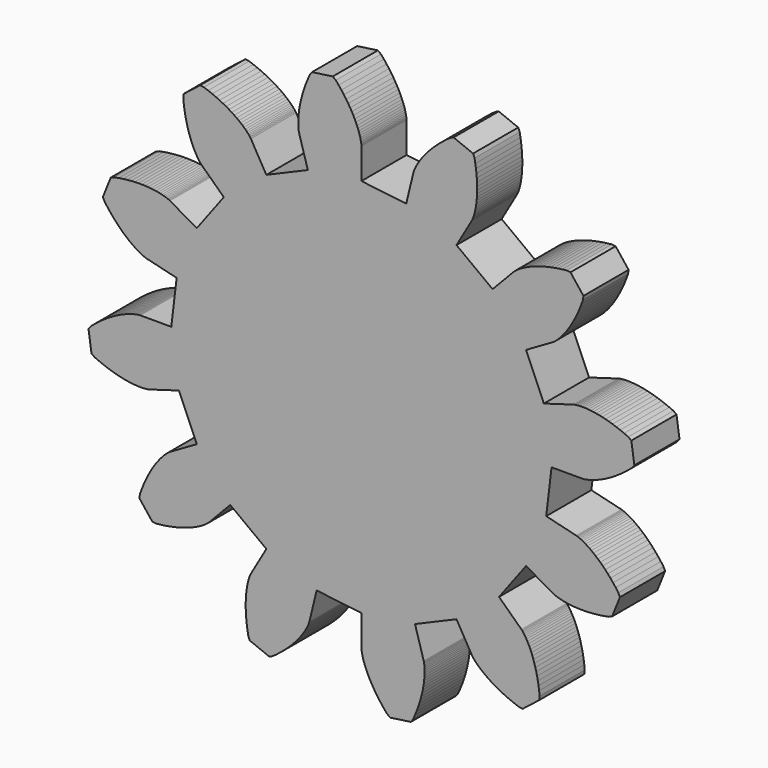
from build123d import *

# Parameters (mm, degrees)
F1_DEPTH = 6.35


with BuildPart() as f1:
    # F0 (on Front) → F1 (new body)
    with BuildSketch(Plane.XZ):
        Polygon((20.785176, -5.037988), (21.387156, 0.000102), (24.866702, 0.000102), (24.890324, 0.001372), (24.93452, 0.004166), (24.999036, 0.009754), (25.08438, 0.019406), (25.190552, 0.035916), (25.317552, 0.058014), (25.463602, 0.089764), (25.628702, 0.129642), (25.813614, 0.179172), (26.016052, 0.241148), (26.238048, 0.3143), (26.477824, 0.402438), (26.732586, 0.505816), (27.005636, 0.62291), (27.292148, 0.758038), (27.5939, 0.910946), (27.910892, 1.083158), (28.24033, 1.274674), (28.58069, 1.487018), (28.933496, 1.719936), (29.297224, 1.976222), (29.669334, 2.254606), (30.049826, 2.557628), (30.436668, 2.884272), (30.699812, 3.223362), (30.362246, 5.563464), (30.015028, 5.813908), (29.55097, 6.018124), (29.10139, 6.201258), (28.664764, 6.363818), (28.245664, 6.507074), (27.840534, 6.63128), (27.453184, 6.738976), (27.083868, 6.829654), (26.732586, 6.905346), (26.399084, 6.966052), (26.084886, 7.015836), (25.791262, 7.051396), (25.517196, 7.077812), (25.26218, 7.095592), (25.029262, 7.103974), (24.817426, 7.105498), (24.625656, 7.10118), (24.454714, 7.092798), (24.30587, 7.081876), (24.179124, 7.067906), (24.072952, 7.05292), (23.987608, 7.039204), (23.923092, 7.025234), (23.879912, 7.015836), (23.858068, 7.010248), (20.518984, 6.029046), (18.52229, 10.693756), (21.53473, 12.43264), (21.555558, 12.445086), (21.644712, 12.507062), (21.7138, 12.55964), (21.797874, 12.62568), (21.895664, 12.70823), (22.007424, 12.809068), (22.129852, 12.926162), (22.26498, 13.062306), (22.41103, 13.216992), (22.565462, 13.391998), (22.728276, 13.587578), (22.898964, 13.803986), (23.07524, 14.042492), (23.257358, 14.302842), (23.441762, 14.586814), (23.629214, 14.8939), (23.819714, 15.223084), (24.008436, 15.577414), (24.197158, 15.956128), (24.384356, 16.358718), (24.566474, 16.78747), (24.744274, 17.239336), (24.916486, 17.716348), (24.975668, 18.140528), (23.51339, 19.9993), (23.086162, 20.04248), (22.583496, 19.987108), (22.100896, 19.921068), (21.643696, 19.843852), (21.208086, 19.756984), (20.796098, 19.663258), (20.406208, 19.562674), (20.040956, 19.456502), (19.697802, 19.34652), (19.37954, 19.23349), (19.083376, 19.117412), (18.810326, 19.003112), (18.559374, 18.888812), (18.330774, 18.776036), (18.124018, 18.66707), (17.939614, 18.562168), (17.77553, 18.463108), (17.63202, 18.370652), (17.509592, 18.285308), (17.406214, 18.209362), (17.32087, 18.144846), (17.254576, 18.089474), (17.205046, 18.046802), (17.173296, 18.016576), (17.156786, 17.999812), (14.755978, 15.481148), (10.693756, 18.52229), (12.43264, 21.53473), (12.443562, 21.555558), (12.46439, 21.595436), (12.490552, 21.654618), (12.525096, 21.73285), (12.56345, 21.833942), (12.607646, 21.953576), (12.654636, 22.095562), (12.702896, 22.259646), (12.751156, 22.444304), (12.800686, 22.650806), (12.846152, 22.879406), (12.890348, 23.131628), (12.928702, 23.403408), (12.961976, 23.698302), (12.989408, 24.01504), (13.007442, 24.352606), (13.01684, 24.712524), (13.015824, 25.094286), (13.003124, 25.495352), (12.976962, 25.916992), (12.937084, 26.359206), (12.88222, 26.820724), (12.810592, 27.302054), (12.72093, 27.800656), (12.55964, 28.197658), (10.364318, 29.076752), (9.973158, 28.900476), (9.563456, 28.601264), (9.180424, 28.302306), (8.821014, 28.007412), (8.487512, 27.714042), (8.177378, 27.427276), (7.890612, 27.144574), (7.627468, 26.870508), (7.386676, 26.603046), (7.16722, 26.34549), (6.967576, 26.097586), (6.788252, 25.861874), (6.628486, 25.637084), (6.486754, 25.426264), (6.362548, 25.22789), (6.254852, 25.044502), (6.162904, 24.876608), (6.085434, 24.72497), (6.020664, 24.591112), (5.96834, 24.472748), (5.928462, 24.373434), (5.898236, 24.293424), (5.877408, 24.231702), (5.863692, 24.188776), (5.858104, 24.166678), (5.038192, 20.785176), (0.000102, 21.387156), (0.000102, 24.866702), (-0.001168, 24.890324), (-0.003962, 24.93452), (-0.00955, 24.999036), (-0.019202, 25.08438), (-0.035712, 25.190552), (-0.05781, 25.317552), (-0.08956, 25.463602), (-0.129438, 25.628702), (-0.178968, 25.813614), (-0.240944, 26.016052), (-0.314096, 26.238048), (-0.402234, 26.477824), (-0.505612, 26.732586), (-0.622706, 27.005636), (-0.757834, 27.292148), (-0.910742, 27.5939), (-1.082954, 27.910892), (-1.27447, 28.24033), (-1.486814, 28.58069), (-1.719732, 28.933496), (-1.976018, 29.297224), (-2.254402, 29.669334), (-2.557424, 30.049826), (-2.884068, 30.436668), (-3.223158, 30.699812), (-5.563032, 30.362246), (-5.813857, 30.015028), (-6.017793, 29.55097), (-6.201054, 29.10139), (-6.363691, 28.664764), (-6.506997, 28.245664), (-6.631026, 27.840534), (-6.738518, 27.453184), (-6.829476, 27.083868), (-6.905244, 26.732586), (-6.965874, 26.399084), (-7.01548, 26.084886), (-7.051319, 25.791262), (-7.077507, 25.517196), (-7.095414, 25.26218), (-7.103669, 25.029262), (-7.105066, 24.817426), (-7.100926, 24.625656), (-7.092671, 24.454714), (-7.081622, 24.30587), (-7.06788, 24.179124), (-7.052691, 24.072952), (-7.038899, 23.987608), (-7.025157, 23.923092), (-7.01548, 23.879912), (-7.009994, 23.858068), (-6.028792, 20.518984), (-10.693476, 18.52229), (-12.432563, 21.53473), (-12.444959, 21.555558), (-12.50696, 21.644712), (-12.55936, 21.7138), (-12.625502, 21.797874), (-12.708153, 21.895664), (-12.808763, 22.007424), (-12.925882, 22.129852), (-13.062306, 22.26498), (-13.216636, 22.41103), (-13.391667, 22.565462), (-13.587349, 22.728276), (-13.803706, 22.898964), (-14.042111, 23.07524), (-14.302562, 23.257358), (-14.586458, 23.441762), (-14.893722, 23.629214), (-15.223084, 23.819714), (-15.577236, 24.008436), (-15.956204, 24.197158), (-16.358591, 24.384356), (-16.787139, 24.566474), (-17.239158, 24.744274), (-17.715941, 24.916486), (-18.140401, 24.975668), (-19.999376, 23.51339), (-20.042073, 23.086162), (-19.986955, 22.583496), (-19.920814, 22.100896), (-19.843648, 21.643696), (-19.756831, 21.208086), (-19.663131, 20.796098), (-19.562521, 20.406208), (-19.4564, 20.040956), (-19.346164, 19.697802), (-19.233159, 19.37954), (-19.117412, 19.083376), (-19.003061, 18.810326), (-18.888685, 18.559374), (-18.77568, 18.330774), (-18.666816, 18.124018), (-18.562066, 17.939614), (-18.462828, 17.77553), (-18.370525, 17.63202), (-18.285079, 17.509592), (-18.209311, 17.406214), (-18.144541, 17.32087), (-18.089397, 17.254576), (-18.046675, 17.205046), (-18.016372, 17.173296), (-17.999812, 17.156786), (-15.480767, 14.755978), (-18.522112, 10.693756), (-21.534501, 12.43264), (-21.555177, 12.443562), (-21.595131, 12.46439), (-21.654389, 12.490552), (-21.732951, 12.525096), (-21.833535, 12.56345), (-21.953423, 12.607646), (-22.095358, 12.654636), (-22.259366, 12.702896), (-22.443999, 12.751156), (-22.650704, 12.800686), (-22.879482, 12.846152), (-23.131653, 12.890348), (-23.403103, 12.928702), (-23.698022, 12.961976), (-24.014963, 12.989408), (-24.35258, 13.007442), (-24.71227, 13.01684), (-25.093981, 13.015824), (-25.494971, 13.003124), (-25.916636, 12.976962), (-26.359002, 12.937084), (-26.820647, 12.88222), (-27.301571, 12.810592), (-27.800452, 12.72093), (-28.197327, 12.55964), (-29.076498, 10.364318), (-28.90012, 9.973158), (-28.601086, 9.563456), (-28.302052, 9.180424), (-28.007158, 8.821014), (-27.713635, 8.487512), (-27.426996, 8.177378), (-27.144497, 7.890612), (-26.870279, 7.627468), (-26.602944, 7.386676), (-26.345236, 7.16722), (-26.097205, 6.967576), (-25.861543, 6.788252), (-25.636931, 6.628486), (-25.426086, 6.486754), (-25.227636, 6.362548), (-25.044375, 6.254852), (-24.876227, 6.162904), (-24.724639, 6.085434), (-24.590985, 6.020664), (-24.472468, 5.96834), (-24.373256, 5.928462), (-24.293347, 5.898236), (-24.231321, 5.877408), (-24.188598, 5.863692), (-24.166551, 5.858104), (-20.784871, 5.038192), (-21.387054, 0.000102), (-24.8666, 0.000102), (-24.890019, -0.001168), (-24.934139, -0.003962), (-24.998909, -0.00955), (-25.084329, -0.019202), (-25.190425, -0.035712), (-25.317196, -0.05781), (-25.463297, -0.08956), (-25.628651, -0.129438), (-25.813309, -0.178968), (-26.015874, -0.240944), (-26.237743, -0.314096), (-26.477519, -0.402234), (-26.732433, -0.505612), (-27.005331, -0.622706), (-27.291944, -0.757834), (-27.593747, -0.910742), (-27.910688, -1.082954), (-28.240025, -1.27447), (-28.58041, -1.486814), (-28.933191, -1.719732), (-29.296995, -1.976018), (-29.669054, -2.254402), (-30.049394, -2.557424), (-30.436617, -2.884068), (-30.699837, -3.223158), (-30.36222, -5.563032), (-30.014951, -5.813857), (-29.550538, -6.017793), (-29.101313, -6.201054), (-28.664484, -6.363691), (-28.245537, -6.506997), (-27.840407, -6.631026), (-27.453184, -6.738518), (-27.083842, -6.829476), (-26.732433, -6.905244), (-26.398957, -6.965874), (-26.084784, -7.01548), (-25.791262, -7.051319), (-25.517018, -7.077507), (-25.262103, -7.095414), (-25.029211, -7.103669), (-24.816994, -7.105066), (-24.625452, -7.100926), (-24.454561, -7.092671), (-24.305717, -7.081622), (-24.178971, -7.06788), (-24.07285, -7.052691), (-23.987404, -7.038899), (-23.922634, -7.025157), (-23.879912, -7.01548), (-23.857864, -7.009994), (-20.518907, -6.028792), (-18.522112, -10.693476), (-21.534501, -12.432563), (-21.555177, -12.444959), (-21.644762, -12.50696), (-21.713647, -12.55936), (-21.797721, -12.625502), (-21.895537, -12.708153), (-22.00717, -12.808763), (-22.129826, -12.925882), (-22.264878, -13.062306), (-22.410928, -13.216636), (-22.565258, -13.391667), (-22.727895, -13.587349), (-22.898786, -13.803706), (-23.075163, -14.042111), (-23.257053, -14.302562), (-23.441711, -14.586458), (-23.629137, -14.893722), (-23.819282, -15.223084), (-24.00808, -15.577236), (-24.196853, -15.956204), (-24.384279, -16.358591), (-24.566169, -16.787139), (-24.743943, -17.239158), (-24.916206, -17.715941), (-24.975464, -18.140401), (-23.513339, -19.999376), (-23.086162, -20.042073), (-22.583191, -19.986955), (-22.10087, -19.920814), (-21.643391, -19.843648), (-21.207908, -19.756831), (-20.795869, -19.663131), (-20.405877, -19.562521), (-20.040702, -19.4564), (-19.697573, -19.346164), (-19.37926, -19.233159), (-19.082944, -19.117412), (-18.810122, -19.003061), (-18.559323, -18.888685), (-18.330545, -18.77568), (-18.123865, -18.666816), (-17.939207, -18.562066), (-17.775199, -18.462828), (-17.631918, -18.370525), (-17.509236, -18.285079), (-17.405883, -18.209311), (-17.320463, -18.144541), (-17.254322, -18.089397), (-17.20469, -18.046675), (-17.173016, -18.016372), (-17.156481, -17.999812), (-14.755927, -15.480767), (-10.693476, -18.522112), (-12.432563, -21.534501), (-12.443562, -21.555177), (-12.464237, -21.595131), (-12.490425, -21.654389), (-12.524892, -21.732951), (-12.563475, -21.833535), (-12.607569, -21.953423), (-12.654432, -22.095358), (-12.702642, -22.259366), (-12.750876, -22.443999), (-12.800508, -22.650704), (-12.845974, -22.879482), (-12.890094, -23.131653), (-12.928651, -23.403103), (-12.961722, -23.698022), (-12.989281, -24.014963), (-13.007213, -24.35258), (-13.01684, -24.71227), (-13.015468, -25.093981), (-13.003073, -25.494971), (-12.976911, -25.916636), (-12.936931, -26.359002), (-12.881788, -26.820647), (-12.810134, -27.301571), (-12.720574, -27.800452), (-12.55936, -28.197327), (-10.364114, -29.076498), (-9.972751, -28.90012), (-9.563481, -28.601086), (-9.180373, -28.302052), (-8.820709, -28.007158), (-8.487232, -27.713635), (-8.177174, -27.426996), (-7.890561, -27.144497), (-7.627341, -26.870279), (-7.386193, -26.602944), (-7.167067, -26.345236), (-6.967271, -26.097205), (-6.788125, -25.861543), (-6.628282, -25.636931), (-6.486322, -25.426086), (-6.362319, -25.227636), (-6.254826, -25.044375), (-6.162472, -24.876227), (-6.085307, -24.724639), (-6.020537, -24.590985), (-5.968187, -24.472468), (-5.928233, -24.373256), (-5.89788, -24.293347), (-5.877255, -24.231321), (-5.863463, -24.188598), (-5.857951, -24.166551), (-5.037988, -20.784871), (0.000102, -21.387054), (0.000102, -24.8666), (0.001372, -24.890019), (0.004166, -24.934139), (0.009754, -24.998909), (0.019406, -25.084329), (0.035916, -25.190425), (0.058014, -25.317196), (0.089764, -25.463297), (0.129642, -25.628651), (0.179172, -25.813309), (0.241148, -26.015874), (0.3143, -26.237743), (0.402438, -26.477519), (0.505816, -26.732433), (0.62291, -27.005331), (0.758038, -27.291944), (0.910946, -27.593747), (1.083158, -27.910688), (1.274674, -28.240025), (1.487018, -28.58041), (1.719936, -28.933191), (1.976222, -29.296995), (2.254606, -29.669054), (2.557628, -30.049394), (2.884272, -30.436617), (3.223362, -30.699837), (5.563464, -30.36222), (5.813908, -30.014951), (6.018124, -29.550538), (6.201258, -29.101313), (6.363818, -28.664484), (6.507074, -28.245537), (6.63128, -27.840407), (6.738976, -27.453184), (6.829654, -27.083842), (6.905346, -26.732433), (6.966052, -26.398957), (7.015836, -26.084784), (7.051396, -25.791262), (7.077812, -25.517018), (7.095592, -25.262103), (7.103974, -25.029211), (7.105498, -24.816994), (7.10118, -24.625452), (7.092798, -24.454561), (7.081876, -24.305717), (7.067906, -24.178971), (7.05292, -24.07285), (7.039204, -23.987404), (7.025234, -23.922634), (7.015836, -23.879912), (7.010248, -23.857864), (6.029046, -20.518907), (10.693756, -18.522112), (12.43264, -21.534501), (12.445086, -21.555177), (12.507062, -21.644762), (12.55964, -21.713647), (12.62568, -21.797721), (12.70823, -21.895537), (12.809068, -22.00717), (12.926162, -22.129826), (13.062306, -22.264878), (13.216992, -22.410928), (13.391998, -22.565258), (13.587578, -22.727895), (13.803986, -22.898786), (14.042492, -23.075163), (14.302842, -23.257053), (14.586814, -23.441711), (14.8939, -23.629137), (15.223084, -23.819282), (15.577414, -24.00808), (15.956128, -24.196853), (16.358718, -24.384279), (16.78747, -24.566169), (17.239336, -24.743943), (17.716348, -24.916206), (18.140528, -24.975464), (19.9993, -23.513339), (20.04248, -23.086162), (19.987108, -22.583191), (19.921068, -22.10087), (19.843852, -21.643391), (19.756984, -21.207908), (19.663258, -20.795869), (19.562674, -20.405877), (19.456502, -20.040702), (19.34652, -19.697573), (19.23349, -19.37926), (19.117412, -19.082944), (19.003112, -18.810122), (18.888812, -18.559323), (18.776036, -18.330545), (18.66707, -18.123865), (18.562168, -17.939207), (18.463108, -17.775199), (18.370652, -17.631918), (18.285308, -17.509236), (18.209362, -17.405883), (18.144846, -17.320463), (18.089474, -17.254322), (18.046802, -17.20469), (18.016576, -17.173016), (17.999812, -17.156481), (15.481148, -14.755927), (18.52229, -10.693476), (21.53473, -12.432563), (21.555558, -12.443562), (21.595436, -12.464237), (21.654618, -12.490425), (21.73285, -12.524892), (21.833942, -12.563475), (21.953576, -12.607569), (22.095562, -12.654432), (22.259646, -12.702642), (22.444304, -12.750876), (22.650806, -12.800508), (22.879406, -12.845974), (23.131628, -12.890094), (23.403408, -12.928651), (23.698302, -12.961722), (24.01504, -12.989281), (24.352606, -13.007213), (24.712524, -13.01684), (25.094286, -13.015468), (25.495352, -13.003073), (25.916992, -12.976911), (26.359206, -12.936931), (26.820724, -12.881788), (27.302054, -12.810134), (27.800656, -12.720574), (28.197658, -12.55936), (29.076752, -10.364114), (28.900476, -9.972751), (28.601264, -9.563481), (28.302306, -9.180373), (28.007412, -8.820709), (27.714042, -8.487232), (27.427276, -8.177174), (27.144574, -7.890561), (26.870508, -7.627341), (26.603046, -7.386193), (26.34549, -7.167067), (26.097586, -6.967271), (25.861874, -6.788125), (25.637084, -6.628282), (25.426264, -6.486322), (25.22789, -6.362319), (25.044502, -6.254826), (24.876608, -6.162472), (24.72497, -6.085307), (24.591112, -6.020537), (24.472748, -5.968187), (24.373434, -5.928233), (24.293424, -5.89788), (24.231702, -5.877255), (24.188776, -5.863463), (24.166678, -5.857951), align=None)
    extrude(amount=F1_DEPTH)


solid = f1.part
